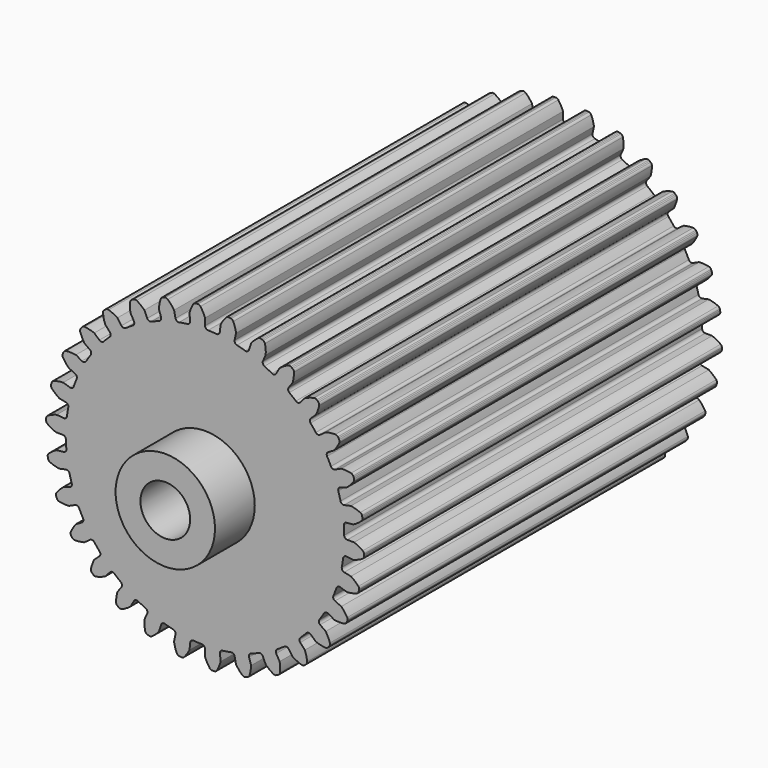
from build123d import *

# Parameters (mm, degrees)
F0_R     = 6.35
F1_DEPTH = 114.3
F2_R     = 12.7
F2_R_2   = 6.35
F3_DEPTH = 12.7


with BuildPart() as f1:
    # F0 (on Front) → F1 (new body)
    with BuildSketch(Plane.XZ):
        with BuildLine():
            ThreePointArc((-3.807144, 36.138696), (-3.972916, 35.567595), (-4.490792, 35.275294))
            ThreePointArc((-4.490792, 35.275294), (-5.56281, 35.122197), (-6.629668, 34.93653))
            ThreePointArc((-6.629668, 34.93653), (-7.212524, 35.054492), (-7.546662, 35.546414))
            Line((-7.546662, 35.546414), (-7.912861, 37.269245))
            ThreePointArc((-7.912861, 37.269245), (-8.661268, 38.270221), (-9.534292, 39.164589))
            ThreePointArc((-9.534292, 39.164589), (-9.857121, 39.339489), (-10.224161, 39.348988))
            Line((-10.224161, 39.348988), (-10.52632, 39.284762))
            Line((-10.52632, 39.284762), (-10.820111, 39.189304))
            ThreePointArc((-10.820111, 39.189304), (-11.133227, 38.997557), (-11.325355, 38.684675))
            ThreePointArc((-11.325355, 38.684675), (-11.634233, 37.473617), (-11.781884, 36.232543))
            Line((-11.781884, 36.232543), (-11.237607, 34.557429))
            ThreePointArc((-11.237607, 34.557429), (-11.281017, 33.964342), (-11.726804, 33.570756))
            ThreePointArc((-11.726804, 33.570756), (-12.743564, 33.19812), (-13.748507, 32.794697))
            ThreePointArc((-13.748507, 32.794697), (-14.343152, 32.788899), (-14.772264, 33.200601))
            Line((-14.772264, 33.200601), (-15.488657, 34.809647))
            ThreePointArc((-15.488657, 34.809647), (-16.428824, 35.633146), (-17.468721, 36.326458))
            ThreePointArc((-17.468721, 36.326458), (-17.820859, 36.430416), (-18.181853, 36.363396))
            Line((-18.181853, 36.363396), (-18.464056, 36.237751))
            Line((-18.464056, 36.237751), (-18.73158, 36.083296))
            ThreePointArc((-18.73158, 36.083296), (-18.997987, 35.830639), (-19.120865, 35.484648))
            ThreePointArc((-19.120865, 35.484648), (-19.1712, 34.235836), (-19.057591, 32.991184))
            Line((-19.057591, 32.991184), (-18.176931, 31.465836))
            ThreePointArc((-18.176931, 31.465836), (-18.096083, 30.876685), (-18.450297, 30.399015))
            ThreePointArc((-18.450297, 30.399015), (-19.367364, 29.823125), (-20.26647, 29.219579))
            ThreePointArc((-20.26647, 29.219579), (-20.846915, 29.090274), (-21.352248, 29.403762))
            Line((-21.352248, 29.403762), (-22.387526, 30.828699))
            ThreePointArc((-22.387526, 30.828699), (-23.478363, 31.438732), (-24.639683, 31.900686))
            ThreePointArc((-24.639683, 31.900686), (-25.00574, 31.929159), (-25.344911, 31.788548))
            Line((-25.344911, 31.788548), (-25.594824, 31.606976))
            Line((-25.594824, 31.606976), (-25.824389, 31.400275))
            ThreePointArc((-25.824389, 31.400275), (-26.032445, 31.09775), (-26.080702, 30.733772))
            ThreePointArc((-26.080702, 30.733772), (-25.870294, 29.501784), (-25.50039, 28.307951))
            Line((-25.50039, 28.307951), (-24.321837, 26.999036))
            ThreePointArc((-24.321837, 26.999036), (-24.120264, 26.439568), (-24.367425, 25.898691))
            ThreePointArc((-24.367425, 25.898691), (-25.144717, 25.144717), (-25.898691, 24.367425))
            ThreePointArc((-25.898691, 24.367425), (-26.439568, 24.120264), (-26.999036, 24.321837))
            Line((-26.999036, 24.321837), (-28.307951, 25.50039))
            ThreePointArc((-28.307951, 25.50039), (-29.501784, 25.870294), (-30.733772, 26.080702))
            ThreePointArc((-30.733772, 26.080702), (-31.09775, 26.032445), (-31.400275, 25.824389))
            Line((-31.400275, 25.824389), (-31.606976, 25.594824))
            Line((-31.606976, 25.594824), (-31.788548, 25.344911))
            ThreePointArc((-31.788548, 25.344911), (-31.929159, 25.00574), (-31.900686, 24.639683))
            ThreePointArc((-31.900686, 24.639683), (-31.438732, 23.478363), (-30.828699, 22.387526))
            Line((-30.828699, 22.387526), (-29.403762, 21.352248))
            ThreePointArc((-29.403762, 21.352248), (-29.090274, 20.846915), (-29.219579, 20.26647))
            ThreePointArc((-29.219579, 20.26647), (-29.823125, 19.367364), (-30.399015, 18.450297))
            ThreePointArc((-30.399015, 18.450297), (-30.876685, 18.096083), (-31.465836, 18.176931))
            Line((-31.465836, 18.176931), (-32.991184, 19.057591))
            ThreePointArc((-32.991184, 19.057591), (-34.235836, 19.1712), (-35.484648, 19.120865))
            ThreePointArc((-35.484648, 19.120865), (-35.830639, 18.997987), (-36.083296, 18.73158))
            Line((-36.083296, 18.73158), (-36.237751, 18.464056))
            Line((-36.237751, 18.464056), (-36.363396, 18.181853))
            ThreePointArc((-36.363396, 18.181853), (-36.430416, 17.820859), (-36.326458, 17.468721))
            ThreePointArc((-36.326458, 17.468721), (-35.633146, 16.428824), (-34.809647, 15.488657))
            Line((-34.809647, 15.488657), (-33.200601, 14.772264))
            ThreePointArc((-33.200601, 14.772264), (-32.788899, 14.343152), (-32.794697, 13.748507))
            ThreePointArc((-32.794697, 13.748507), (-33.19812, 12.743564), (-33.570756, 11.726804))
            ThreePointArc((-33.570756, 11.726804), (-33.964342, 11.281017), (-34.557429, 11.237607))
            Line((-34.557429, 11.237607), (-36.232543, 11.781884))
            ThreePointArc((-36.232543, 11.781884), (-37.473617, 11.634233), (-38.684675, 11.325355))
            ThreePointArc((-38.684675, 11.325355), (-38.997557, 11.133227), (-39.189304, 10.820111))
            Line((-39.189304, 10.820111), (-39.284762, 10.52632))
            Line((-39.284762, 10.52632), (-39.348988, 10.224161))
            ThreePointArc((-39.348988, 10.224161), (-39.339489, 9.857121), (-39.164589, 9.534292))
            ThreePointArc((-39.164589, 9.534292), (-38.270221, 8.661268), (-37.269245, 7.912861))
            Line((-37.269245, 7.912861), (-35.546414, 7.546662))
            ThreePointArc((-35.546414, 7.546662), (-35.054492, 7.212524), (-34.93653, 6.629668))
            ThreePointArc((-34.93653, 6.629668), (-35.122197, 5.56281), (-35.275294, 4.490792))
            ThreePointArc((-35.275294, 4.490792), (-35.567595, 3.972916), (-36.138696, 3.807144))
            Line((-36.138696, 3.807144), (-37.890367, 3.991252))
            ThreePointArc((-37.890367, 3.991252), (-39.073622, 3.588794), (-40.193996, 3.034873))
            ThreePointArc((-40.193996, 3.034873), (-40.460095, 2.781891), (-40.582551, 2.435751))
            Line((-40.582551, 2.435751), (-40.614841, 2.128534))
            Line((-40.614841, 2.128534), (-40.614841, 1.819624))
            ThreePointArc((-40.614841, 1.819624), (-40.529237, 1.46258), (-40.29104, 1.183169))
            ThreePointArc((-40.29104, 1.183169), (-39.234704, 0.515172), (-38.099999, -0.008766))
            Line((-38.099999, -0.008766), (-36.338679, -0.008766))
            ThreePointArc((-36.338679, -0.008766), (-35.788035, -0.233325), (-35.551468, -0.778919))
            ThreePointArc((-35.551468, -0.778919), (-35.511266, -1.861067), (-35.438133, -2.941489))
            ThreePointArc((-35.438133, -2.941489), (-35.616374, -3.508821), (-36.140528, -3.789708))
            Line((-36.140528, -3.789708), (-37.8922, -3.973816))
            ThreePointArc((-37.8922, -3.973816), (-38.965922, -4.613493), (-39.946646, -5.388248))
            ThreePointArc((-39.946646, -5.388248), (-40.154333, -5.691027), (-40.202146, -6.055063))
            Line((-40.202146, -6.055063), (-40.169856, -6.36228))
            Line((-40.169856, -6.36228), (-40.10563, -6.664439))
            ThreePointArc((-40.10563, -6.664439), (-39.947664, -6.995883), (-39.656578, -7.219664))
            ThreePointArc((-39.656578, -7.219664), (-38.484442, -7.65344), (-37.2656, -7.93001))
            Line((-37.2656, -7.93001), (-35.542769, -7.563811))
            ThreePointArc((-35.542769, -7.563811), (-34.957469, -7.668978), (-34.612637, -8.153463))
            ThreePointArc((-34.612637, -8.153463), (-34.348322, -9.203605), (-34.052155, -10.245212))
            ThreePointArc((-34.052155, -10.245212), (-34.108545, -10.837205), (-34.562847, -11.220932))
            Line((-34.562847, -11.220932), (-36.237961, -11.76521))
            ThreePointArc((-36.237961, -11.76521), (-37.155224, -12.614148), (-37.953436, -13.575876))
            ThreePointArc((-37.953436, -13.575876), (-38.093633, -13.915219), (-38.064714, -14.281241))
            Line((-38.064714, -14.281241), (-37.969256, -14.575032))
            Line((-37.969256, -14.575032), (-37.843611, -14.857235))
            ThreePointArc((-37.843611, -14.857235), (-37.620185, -15.148593), (-37.288934, -15.306964))
            ThreePointArc((-37.288934, -15.306964), (-36.052225, -15.487559), (-34.802515, -15.504674))
            Line((-34.802515, -15.504674), (-33.19347, -14.788281))
            ThreePointArc((-33.19347, -14.788281), (-32.599095, -14.769459), (-32.161067, -15.171662))
            ThreePointArc((-32.161067, -15.171662), (-31.684192, -16.143902), (-31.177934, -17.101171))
            ThreePointArc((-31.177934, -17.101171), (-29.823125, -19.367364), (-28.303905, -21.526787))
            ThreePointArc((-28.303905, -21.526787), (-27.63531, -22.378633), (-26.941088, -23.209726))
            ThreePointArc((-26.941088, -23.209726), (-26.751818, -23.773475), (-27.010767, -24.308808))
            Line((-27.010767, -24.308808), (-28.319683, -25.487361))
            ThreePointArc((-28.319683, -25.487361), (-28.81235, -26.635988), (-29.150383, -27.839234))
            ThreePointArc((-29.150383, -27.839234), (-29.140436, -28.206262), (-28.965143, -28.528877))
            Line((-28.965143, -28.528877), (-28.758442, -28.758442))
            Line((-28.758442, -28.758442), (-28.528877, -28.965143))
            ThreePointArc((-28.528877, -28.965143), (-28.206262, -29.140436), (-27.839234, -29.150383))
            ThreePointArc((-27.839234, -29.150383), (-26.635988, -28.81235), (-25.487361, -28.319683))
            Line((-25.487361, -28.319683), (-24.308808, -27.010767))
            ThreePointArc((-24.308808, -27.010767), (-23.773475, -26.751818), (-23.209726, -26.941088))
            ThreePointArc((-23.209726, -26.941088), (-22.378633, -27.63531), (-21.526787, -28.303905))
            ThreePointArc((-21.526787, -28.303905), (-21.224443, -28.815983), (-21.366432, -29.393456))
            Line((-21.366432, -29.393456), (-22.401709, -30.818394))
            ThreePointArc((-22.401709, -30.818394), (-22.644798, -32.044352), (-22.725275, -33.291585))
            ThreePointArc((-22.725275, -33.291585), (-22.639236, -33.648525), (-22.400698, -33.927645))
            Line((-22.400698, -33.927645), (-22.150785, -34.109217))
            Line((-22.150785, -34.109217), (-21.883261, -34.263672))
            ThreePointArc((-21.883261, -34.263672), (-21.53125, -34.368059), (-21.170174, -34.301479))
            ThreePointArc((-21.170174, -34.301479), (-20.063504, -33.720664), (-19.042408, -32.99995))
            Line((-19.042408, -32.99995), (-18.161748, -31.474602))
            ThreePointArc((-18.161748, -31.474602), (-17.691952, -31.11001), (-17.101171, -31.177934))
            ThreePointArc((-17.101171, -31.177934), (-16.143902, -31.684192), (-15.171662, -32.161067))
            ThreePointArc((-15.171662, -32.161067), (-14.769459, -32.599095), (-14.788281, -33.19347))
            Line((-14.788281, -33.19347), (-15.504674, -34.802515))
            ThreePointArc((-15.504674, -34.802515), (-15.487559, -36.052225), (-15.306964, -37.288934))
            ThreePointArc((-15.306964, -37.288934), (-15.148593, -37.620185), (-14.857235, -37.843611))
            Line((-14.857235, -37.843611), (-14.575032, -37.969256))
            Line((-14.575032, -37.969256), (-14.281241, -38.064714))
            ThreePointArc((-14.281241, -38.064714), (-13.915219, -38.093633), (-13.575876, -37.953436))
            ThreePointArc((-13.575876, -37.953436), (-12.614148, -37.155224), (-11.76521, -36.237961))
            Line((-11.76521, -36.237961), (-11.220932, -34.562847))
            ThreePointArc((-11.220932, -34.562847), (-10.837205, -34.108545), (-10.245212, -34.052155))
            ThreePointArc((-10.245212, -34.052155), (-9.203605, -34.348322), (-8.153463, -34.612637))
            ThreePointArc((-8.153463, -34.612637), (-7.668978, -34.957469), (-7.563811, -35.542769))
            Line((-7.563811, -35.542769), (-7.93001, -37.2656))
            ThreePointArc((-7.93001, -37.2656), (-7.65344, -38.484442), (-7.219664, -39.656578))
            ThreePointArc((-7.219664, -39.656578), (-6.995883, -39.947664), (-6.664439, -40.10563))
            Line((-6.664439, -40.10563), (-6.36228, -40.169856))
            Line((-6.36228, -40.169856), (-6.055063, -40.202146))
            ThreePointArc((-6.055063, -40.202146), (-5.691027, -40.154333), (-5.388248, -39.946646))
            ThreePointArc((-5.388248, -39.946646), (-4.613493, -38.965922), (-3.973816, -37.8922))
            Line((-3.973816, -37.8922), (-3.789708, -36.140528))
            ThreePointArc((-3.789708, -36.140528), (-3.508821, -35.616374), (-2.941489, -35.438133))
            ThreePointArc((-2.941489, -35.438133), (-1.861067, -35.511266), (-0.778919, -35.551468))
            ThreePointArc((-0.778919, -35.551468), (-0.233325, -35.788035), (-0.008766, -36.338679))
            Line((-0.008766, -36.338679), (-0.008766, -38.099999))
            ThreePointArc((-0.008766, -38.099999), (0.515172, -39.234704), (1.183169, -40.29104))
            ThreePointArc((1.183169, -40.29104), (1.46258, -40.529237), (1.819624, -40.614841))
            Line((1.819624, -40.614841), (2.128534, -40.614841))
            Line((2.128534, -40.614841), (2.435751, -40.582551))
            ThreePointArc((2.435751, -40.582551), (2.781891, -40.460095), (3.034873, -40.193996))
            ThreePointArc((3.034873, -40.193996), (3.588794, -39.073622), (3.991252, -37.890367))
            Line((3.991252, -37.890367), (3.807144, -36.138696))
            ThreePointArc((3.807144, -36.138696), (3.972916, -35.567595), (4.490792, -35.275294))
            ThreePointArc((4.490792, -35.275294), (5.56281, -35.122197), (6.629668, -34.93653))
            ThreePointArc((6.629668, -34.93653), (7.212524, -35.054492), (7.546662, -35.546414))
            Line((7.546662, -35.546414), (7.912861, -37.269245))
            ThreePointArc((7.912861, -37.269245), (8.661268, -38.270221), (9.534292, -39.164589))
            ThreePointArc((9.534292, -39.164589), (9.857121, -39.339489), (10.224161, -39.348988))
            Line((10.224161, -39.348988), (10.52632, -39.284762))
            Line((10.52632, -39.284762), (10.820111, -39.189304))
            ThreePointArc((10.820111, -39.189304), (11.133227, -38.997557), (11.325355, -38.684675))
            ThreePointArc((11.325355, -38.684675), (11.634233, -37.473617), (11.781884, -36.232543))
            Line((11.781884, -36.232543), (11.237607, -34.557429))
            ThreePointArc((11.237607, -34.557429), (11.281017, -33.964342), (11.726804, -33.570756))
            ThreePointArc((11.726804, -33.570756), (12.743564, -33.19812), (13.748507, -32.794697))
            ThreePointArc((13.748507, -32.794697), (14.343152, -32.788899), (14.772264, -33.200601))
            Line((14.772264, -33.200601), (15.488657, -34.809647))
            ThreePointArc((15.488657, -34.809647), (16.428824, -35.633146), (17.468721, -36.326458))
            ThreePointArc((17.468721, -36.326458), (17.820859, -36.430416), (18.181853, -36.363396))
            Line((18.181853, -36.363396), (18.464056, -36.237751))
            Line((18.464056, -36.237751), (18.73158, -36.083296))
            ThreePointArc((18.73158, -36.083296), (18.997987, -35.830639), (19.120865, -35.484648))
            ThreePointArc((19.120865, -35.484648), (19.1712, -34.235836), (19.057591, -32.991184))
            Line((19.057591, -32.991184), (18.176931, -31.465836))
            ThreePointArc((18.176931, -31.465836), (18.096083, -30.876685), (18.450297, -30.399015))
            ThreePointArc((18.450297, -30.399015), (19.367364, -29.823125), (20.26647, -29.219579))
            ThreePointArc((20.26647, -29.219579), (20.846915, -29.090274), (21.352248, -29.403762))
            Line((21.352248, -29.403762), (22.387526, -30.828699))
            ThreePointArc((22.387526, -30.828699), (23.478363, -31.438732), (24.639683, -31.900686))
            ThreePointArc((24.639683, -31.900686), (25.00574, -31.929159), (25.344911, -31.788548))
            Line((25.344911, -31.788548), (25.594824, -31.606976))
            Line((25.594824, -31.606976), (25.824389, -31.400275))
            ThreePointArc((25.824389, -31.400275), (26.032445, -31.09775), (26.080702, -30.733772))
            ThreePointArc((26.080702, -30.733772), (25.870294, -29.501784), (25.50039, -28.307951))
            Line((25.50039, -28.307951), (24.321837, -26.999036))
            ThreePointArc((24.321837, -26.999036), (24.120264, -26.439568), (24.367425, -25.898691))
            ThreePointArc((24.367425, -25.898691), (25.144717, -25.144717), (25.898691, -24.367425))
            ThreePointArc((25.898691, -24.367425), (26.439568, -24.120264), (26.999036, -24.321837))
            Line((26.999036, -24.321837), (28.307951, -25.50039))
            ThreePointArc((28.307951, -25.50039), (29.501784, -25.870294), (30.733772, -26.080702))
            ThreePointArc((30.733772, -26.080702), (31.09775, -26.032445), (31.400275, -25.824389))
            Line((31.400275, -25.824389), (31.606976, -25.594824))
            Line((31.606976, -25.594824), (31.788548, -25.344911))
            ThreePointArc((31.788548, -25.344911), (31.929159, -25.00574), (31.900686, -24.639683))
            ThreePointArc((31.900686, -24.639683), (31.438732, -23.478363), (30.828699, -22.387526))
            Line((30.828699, -22.387526), (29.403762, -21.352248))
            ThreePointArc((29.403762, -21.352248), (29.090274, -20.846915), (29.219579, -20.26647))
            ThreePointArc((29.219579, -20.26647), (29.823125, -19.367364), (30.399015, -18.450297))
            ThreePointArc((30.399015, -18.450297), (30.876685, -18.096083), (31.465836, -18.176931))
            Line((31.465836, -18.176931), (32.991184, -19.057591))
            ThreePointArc((32.991184, -19.057591), (34.235836, -19.1712), (35.484648, -19.120865))
            ThreePointArc((35.484648, -19.120865), (35.830639, -18.997987), (36.083296, -18.73158))
            Line((36.083296, -18.73158), (36.237751, -18.464056))
            Line((36.237751, -18.464056), (36.363396, -18.181853))
            ThreePointArc((36.363396, -18.181853), (36.430416, -17.820859), (36.326458, -17.468721))
            ThreePointArc((36.326458, -17.468721), (35.633146, -16.428824), (34.809647, -15.488657))
            Line((34.809647, -15.488657), (33.200601, -14.772264))
            ThreePointArc((33.200601, -14.772264), (32.788899, -14.343152), (32.794697, -13.748507))
            ThreePointArc((32.794697, -13.748507), (33.19812, -12.743564), (33.570756, -11.726804))
            ThreePointArc((33.570756, -11.726804), (33.964342, -11.281017), (34.557429, -11.237607))
            Line((34.557429, -11.237607), (36.232543, -11.781884))
            ThreePointArc((36.232543, -11.781884), (37.473617, -11.634233), (38.684675, -11.325355))
            ThreePointArc((38.684675, -11.325355), (38.997557, -11.133227), (39.189304, -10.820111))
            Line((39.189304, -10.820111), (39.284762, -10.52632))
            Line((39.284762, -10.52632), (39.348988, -10.224161))
            ThreePointArc((39.348988, -10.224161), (39.339489, -9.857121), (39.164589, -9.534292))
            ThreePointArc((39.164589, -9.534292), (38.270221, -8.661268), (37.269245, -7.912861))
            Line((37.269245, -7.912861), (35.546414, -7.546662))
            ThreePointArc((35.546414, -7.546662), (35.054492, -7.212524), (34.93653, -6.629668))
            ThreePointArc((34.93653, -6.629668), (35.122197, -5.56281), (35.275294, -4.490792))
            ThreePointArc((35.275294, -4.490792), (35.567595, -3.972916), (36.138696, -3.807144))
            Line((36.138696, -3.807144), (37.890367, -3.991252))
            ThreePointArc((37.890367, -3.991252), (39.073622, -3.588794), (40.193996, -3.034873))
            ThreePointArc((40.193996, -3.034873), (40.460095, -2.781891), (40.582551, -2.435751))
            Line((40.582551, -2.435751), (40.614841, -2.128534))
            Line((40.614841, -2.128534), (40.614841, -1.819624))
            ThreePointArc((40.614841, -1.819624), (40.529237, -1.46258), (40.29104, -1.183169))
            ThreePointArc((40.29104, -1.183169), (39.234704, -0.515172), (38.099999, 0.008766))
            Line((38.099999, 0.008766), (36.338679, 0.008766))
            ThreePointArc((36.338679, 0.008766), (35.788035, 0.233325), (35.551468, 0.778919))
            ThreePointArc((35.551468, 0.778919), (35.511266, 1.861067), (35.438133, 2.941489))
            ThreePointArc((35.438133, 2.941489), (35.616374, 3.508821), (36.140528, 3.789708))
            Line((36.140528, 3.789708), (37.8922, 3.973816))
            ThreePointArc((37.8922, 3.973816), (38.965922, 4.613493), (39.946646, 5.388248))
            ThreePointArc((39.946646, 5.388248), (40.154333, 5.691027), (40.202146, 6.055063))
            Line((40.202146, 6.055063), (40.169856, 6.36228))
            Line((40.169856, 6.36228), (40.10563, 6.664439))
            ThreePointArc((40.10563, 6.664439), (39.947664, 6.995883), (39.656578, 7.219664))
            ThreePointArc((39.656578, 7.219664), (38.484442, 7.65344), (37.2656, 7.93001))
            Line((37.2656, 7.93001), (35.542769, 7.563811))
            ThreePointArc((35.542769, 7.563811), (34.957469, 7.668978), (34.612637, 8.153463))
            ThreePointArc((34.612637, 8.153463), (34.348322, 9.203605), (34.052155, 10.245212))
            ThreePointArc((34.052155, 10.245212), (34.108545, 10.837205), (34.562847, 11.220932))
            Line((34.562847, 11.220932), (36.237961, 11.76521))
            ThreePointArc((36.237961, 11.76521), (37.155224, 12.614148), (37.953436, 13.575876))
            ThreePointArc((37.953436, 13.575876), (38.093633, 13.915219), (38.064714, 14.281241))
            Line((38.064714, 14.281241), (37.969256, 14.575032))
            Line((37.969256, 14.575032), (37.843611, 14.857235))
            ThreePointArc((37.843611, 14.857235), (37.620185, 15.148593), (37.288934, 15.306964))
            ThreePointArc((37.288934, 15.306964), (36.052225, 15.487559), (34.802515, 15.504674))
            Line((34.802515, 15.504674), (33.19347, 14.788281))
            ThreePointArc((33.19347, 14.788281), (32.599095, 14.769459), (32.161067, 15.171662))
            ThreePointArc((32.161067, 15.171662), (31.684192, 16.143902), (31.177934, 17.101171))
            ThreePointArc((31.177934, 17.101171), (31.11001, 17.691952), (31.474602, 18.161748))
            Line((31.474602, 18.161748), (32.99995, 19.042408))
            ThreePointArc((32.99995, 19.042408), (33.720664, 20.063504), (34.301479, 21.170174))
            ThreePointArc((34.301479, 21.170174), (34.368059, 21.53125), (34.263672, 21.883261))
            Line((34.263672, 21.883261), (34.109217, 22.150785))
            Line((34.109217, 22.150785), (33.927645, 22.400698))
            ThreePointArc((33.927645, 22.400698), (33.648525, 22.639236), (33.291585, 22.725275))
            ThreePointArc((33.291585, 22.725275), (32.044352, 22.644798), (30.818394, 22.401709))
            Line((30.818394, 22.401709), (29.393456, 21.366432))
            ThreePointArc((29.393456, 21.366432), (28.815983, 21.224443), (28.303905, 21.526787))
            ThreePointArc((28.303905, 21.526787), (27.63531, 22.378633), (26.941088, 23.209726))
            ThreePointArc((26.941088, 23.209726), (26.751818, 23.773475), (27.010767, 24.308808))
            Line((27.010767, 24.308808), (28.319683, 25.487361))
            ThreePointArc((28.319683, 25.487361), (28.81235, 26.635988), (29.150383, 27.839234))
            ThreePointArc((29.150383, 27.839234), (29.140436, 28.206262), (28.965143, 28.528877))
            Line((28.965143, 28.528877), (28.758442, 28.758442))
            Line((28.758442, 28.758442), (28.528877, 28.965143))
            ThreePointArc((28.528877, 28.965143), (28.206262, 29.140436), (27.839234, 29.150383))
            ThreePointArc((27.839234, 29.150383), (26.635988, 28.81235), (25.487361, 28.319683))
            Line((25.487361, 28.319683), (24.308808, 27.010767))
            ThreePointArc((24.308808, 27.010767), (23.773475, 26.751818), (23.209726, 26.941088))
            ThreePointArc((23.209726, 26.941088), (22.378633, 27.63531), (21.526787, 28.303905))
            ThreePointArc((21.526787, 28.303905), (21.224443, 28.815983), (21.366432, 29.393456))
            Line((21.366432, 29.393456), (22.401709, 30.818394))
            ThreePointArc((22.401709, 30.818394), (22.644798, 32.044352), (22.725275, 33.291585))
            ThreePointArc((22.725275, 33.291585), (22.639236, 33.648525), (22.400698, 33.927645))
            Line((22.400698, 33.927645), (22.150785, 34.109217))
            Line((22.150785, 34.109217), (21.883261, 34.263672))
            ThreePointArc((21.883261, 34.263672), (21.53125, 34.368059), (21.170174, 34.301479))
            ThreePointArc((21.170174, 34.301479), (20.063504, 33.720664), (19.042408, 32.99995))
            Line((19.042408, 32.99995), (18.161748, 31.474602))
            ThreePointArc((18.161748, 31.474602), (17.691952, 31.11001), (17.101171, 31.177934))
            ThreePointArc((17.101171, 31.177934), (16.143902, 31.684192), (15.171662, 32.161067))
            ThreePointArc((15.171662, 32.161067), (14.769459, 32.599095), (14.788281, 33.19347))
            Line((14.788281, 33.19347), (15.504674, 34.802515))
            ThreePointArc((15.504674, 34.802515), (15.487559, 36.052225), (15.306964, 37.288934))
            ThreePointArc((15.306964, 37.288934), (15.148593, 37.620185), (14.857235, 37.843611))
            Line((14.857235, 37.843611), (14.575032, 37.969256))
            Line((14.575032, 37.969256), (14.281241, 38.064714))
            ThreePointArc((14.281241, 38.064714), (13.915219, 38.093633), (13.575876, 37.953436))
            ThreePointArc((13.575876, 37.953436), (12.614148, 37.155224), (11.76521, 36.237961))
            Line((11.76521, 36.237961), (11.220932, 34.562847))
            ThreePointArc((11.220932, 34.562847), (10.837205, 34.108545), (10.245212, 34.052155))
            ThreePointArc((10.245212, 34.052155), (9.203605, 34.348322), (8.153463, 34.612637))
            ThreePointArc((8.153463, 34.612637), (7.668978, 34.957469), (7.563811, 35.542769))
            Line((7.563811, 35.542769), (7.93001, 37.2656))
            ThreePointArc((7.93001, 37.2656), (7.65344, 38.484442), (7.219664, 39.656578))
            ThreePointArc((7.219664, 39.656578), (6.995883, 39.947664), (6.664439, 40.10563))
            Line((6.664439, 40.10563), (6.36228, 40.169856))
            Line((6.36228, 40.169856), (6.055063, 40.202146))
            ThreePointArc((6.055063, 40.202146), (5.691027, 40.154333), (5.388248, 39.946646))
            ThreePointArc((5.388248, 39.946646), (4.613493, 38.965922), (3.973816, 37.8922))
            Line((3.973816, 37.8922), (3.789708, 36.140528))
            ThreePointArc((3.789708, 36.140528), (3.508821, 35.616374), (2.941489, 35.438133))
            ThreePointArc((2.941489, 35.438133), (1.861067, 35.511266), (0.778919, 35.551468))
            ThreePointArc((0.778919, 35.551468), (0.233325, 35.788035), (0.008766, 36.338679))
            Line((0.008766, 36.338679), (0.008766, 38.099999))
            ThreePointArc((0.008766, 38.099999), (-0.515172, 39.234704), (-1.183169, 40.29104))
            ThreePointArc((-1.183169, 40.29104), (-1.46258, 40.529237), (-1.819624, 40.614841))
            Line((-1.819624, 40.614841), (-2.128534, 40.614841))
            Line((-2.128534, 40.614841), (-2.435751, 40.582551))
            ThreePointArc((-2.435751, 40.582551), (-2.781891, 40.460095), (-3.034873, 40.193996))
            ThreePointArc((-3.034873, 40.193996), (-3.588794, 39.073622), (-3.991252, 37.890367))
            Line((-3.991252, 37.890367), (-3.807144, 36.138696))
        make_face()
        Circle(F0_R, mode=Mode.SUBTRACT)
        with BuildLine():
            ThreePointArc((-28.303905, -21.526787), (-29.823125, -19.367364), (-31.177934, -17.101171))
            ThreePointArc((-31.177934, -17.101171), (-31.11001, -17.691952), (-31.474602, -18.161748))
            Line((-31.474602, -18.161748), (-32.99995, -19.042408))
            ThreePointArc((-32.99995, -19.042408), (-33.720664, -20.063504), (-34.301479, -21.170174))
            ThreePointArc((-34.301479, -21.170174), (-34.368059, -21.53125), (-34.263672, -21.883261))
            Line((-34.263672, -21.883261), (-34.109217, -22.150785))
            Line((-34.109217, -22.150785), (-33.927645, -22.400698))
            ThreePointArc((-33.927645, -22.400698), (-33.648525, -22.639236), (-33.291585, -22.725275))
            ThreePointArc((-33.291585, -22.725275), (-32.044352, -22.644798), (-30.818394, -22.401709))
            Line((-30.818394, -22.401709), (-29.393456, -21.366432))
            ThreePointArc((-29.393456, -21.366432), (-28.815983, -21.224443), (-28.303905, -21.526787))
        make_face()
    extrude(amount=F1_DEPTH)

    # F2 (on face) → F3 (join)
    with BuildSketch(Plane.XZ.offset(114.3)):
        Circle(F2_R)
        Circle(F2_R_2, mode=Mode.SUBTRACT)
    extrude(amount=F3_DEPTH)


solid = f1.part
